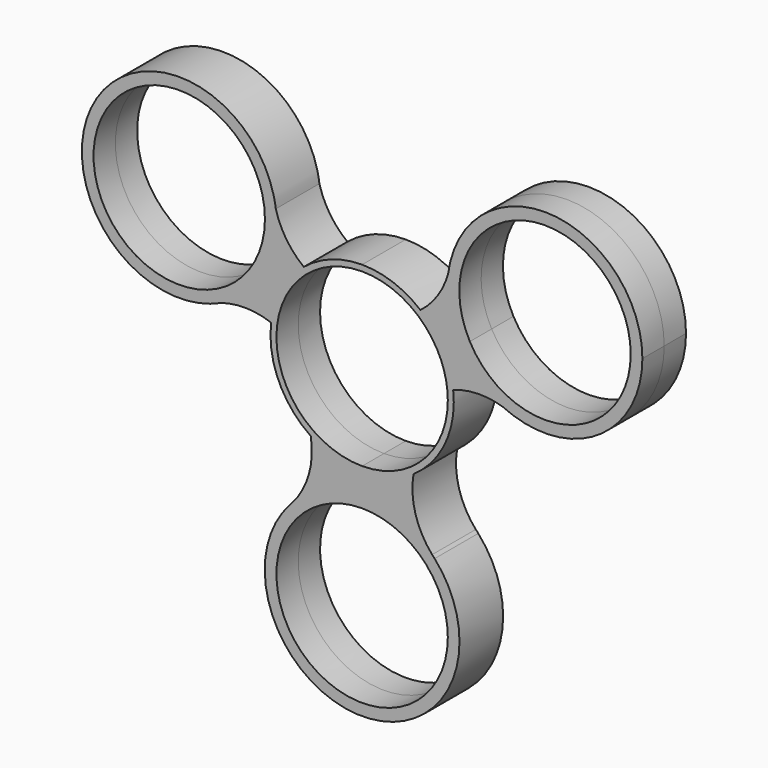
from build123d import *

# Parameters (mm, degrees)
F0_R     = 11.176
F1_DEPTH = 3.556


with BuildPart() as f1:
    # F0 (on Front) → F1 (new body, symmetric)
    with BuildSketch(Plane.XZ):
        with BuildLine():
            ThreePointArc((6.7002799246, -9.8976827694), (10.5579766794, -5.6024105266), (11.9523167324, 0))
            ThreePointArc((11.9523167324, 0), (11.9304871649, 0.7220465922), (11.8650782007, 1.4414557099))
            ThreePointArc((11.8650782007, 1.4414557099), (11.3793199415, 3.6563578792), (10.4839962384, 5.7396601071))
            Line((10.4839962384, 5.7396601071), (9.8030486125, 5.3668625751))
            ThreePointArc((9.8030486125, 5.3668625751), (10.8273230139, 2.7698469909), (11.176, 0))
            ThreePointArc((11.176, 0), (7.9026253865, -7.9026253865), (0, -11.176))
            Line((0, -11.176), (0, -11.9523167324))
            ThreePointArc((0, -11.9523167324), (3.5041144313, -11.42711938), (6.7002799246, -9.8976827694))
        make_face()
        with BuildLine():
            ThreePointArc((10.4839962384, 5.7396601071), (11.3793199415, 3.6563578792), (11.8650782007, 1.4414557099))
            ThreePointArc((11.8650782007, 1.4414557099), (15.1468517315, 2.0483664496), (18.4490286697, 1.5646251732))
            ThreePointArc((18.4490286697, 1.5646251732), (15.1517773463, 3.8060939797), (12.7119618322, 6.9594016014))
            Line((12.7119618322, 6.9594016014), (10.4839962384, 5.7396601071))
        make_face()
        with BuildLine():
            ThreePointArc((9.1344120356, -18.3689094107), (6.9562324961, -14.4094635558), (6.7002799246, -9.8976827694))
            ThreePointArc((6.7002799246, -9.8976827694), (3.5041144313, -11.42711938), (0, -11.9523167324))
            Line((0, -11.9523167324), (0, -14.4923167324))
            ThreePointArc((0, -14.4923167324), (4.9614880336, -15.5015666926), (9.1344120356, -18.3689094107))
        make_face()
        with BuildLine():
            Line((9.8030486125, 5.3668625751), (10.4839962384, 5.7396601071))
            ThreePointArc((10.4839962384, 5.7396601071), (9.2113316577, 7.6163800039), (7.6071320504, 9.2189705087))
            ThreePointArc((7.6071320504, 9.2189705087), (4.0416469295, 11.2482427681), (0, 11.9523167324))
            Line((0, 11.9523167324), (0, 11.176))
            ThreePointArc((0, 11.176), (5.6974959351, 9.6146511153), (9.8030486125, 5.3668625751))
        make_face()
        with BuildLine():
            ThreePointArc((7.6071320504, 9.2189705087), (9.2113316577, 7.6163800039), (10.4839962384, 5.7396601071))
            Line((10.4839962384, 5.7396601071), (12.7119618322, 6.9594016014))
            ThreePointArc((12.7119618322, 6.9594016014), (11.3700398508, 10.7137716013), (11.2582654612, 14.6991894196))
            ThreePointArc((11.2582654612, 14.6991894196), (9.8866064691, 11.6566691217), (7.6071320504, 9.2189705087))
        make_face()
        with BuildLine():
            ThreePointArc((19.8117182154, 1.0178507045), (19.1402143158, 1.3157636909), (18.4490286697, 1.5646251732))
            ThreePointArc((18.4490286697, 1.5646251732), (19.1224650067, 1.2715282716), (19.8117182154, 1.0178507045))
        make_face()
        with BuildLine():
            ThreePointArc((12.7119618322, 6.9594016014), (15.1517773463, 3.8060939797), (18.4490286697, 1.5646251732))
            ThreePointArc((18.4490286697, 1.5646251732), (19.1402143158, 1.3157636909), (19.8117182154, 1.0178507045))
            ThreePointArc((19.8117182154, 1.0178507045), (31.2673508338, 2.7479463892), (36.551789801, 13.0581090731))
            ThreePointArc((36.551789801, 13.0581090731), (25.4052864941, 25.6627371131), (11.5318452302, 16.1417701721))
            ThreePointArc((11.5318452302, 16.1417701721), (11.4210189836, 15.415555894), (11.2582654612, 14.6991894196))
            ThreePointArc((11.2582654612, 14.6991894196), (11.3700398508, 10.7137716013), (12.7119618322, 6.9594016014))
        make_face()
        with BuildLine():
            ThreePointArc((35.027789801, 13.0581090731), (26.6216367919, 2.2307860593), (14.0487411884, 7.691246498))
            ThreePointArc((14.0487411884, 7.691246498), (21.0819428101, 23.885432087), (35.027789801, 13.0581090731))
        make_face(mode=Mode.SUBTRACT)
        with BuildLine():
            Line((0, -14.4923167324), (0, -11.9523167324))
            ThreePointArc((0, -11.9523167324), (-3.5041144313, -11.42711938), (-6.7002799246, -9.8976827694))
            ThreePointArc((-6.7002799246, -9.8976827694), (-6.9562324961, -14.4094635558), (-9.1344120356, -18.3689094107))
            ThreePointArc((-9.1344120356, -18.3689094107), (-4.9614880336, -15.5015666926), (0, -14.4923167324))
        make_face()
        with BuildLine():
            ThreePointArc((-6.7002799246, -9.8976827694), (-3.5041144313, -11.42711938), (0, -11.9523167324))
            Line((0, -11.9523167324), (0, -11.176))
            ThreePointArc((0, -11.176), (-11.176, 0), (0, 11.176))
            Line((0, 11.176), (0, 11.9523167324))
            ThreePointArc((0, 11.9523167324), (-4.0416469295, 11.2482427681), (-7.6071320504, 9.2189705087))
            ThreePointArc((-7.6071320504, 9.2189705087), (-10.4839962384, 5.7396601071), (-11.8650782007, 1.4414557099))
            ThreePointArc((-11.8650782007, 1.4414557099), (-10.8771386837, -4.9543646745), (-6.7002799246, -9.8976827694))
        make_face()
        with BuildLine():
            ThreePointArc((9.4583258088, -18.7170543238), (9.2943419701, -18.544867742), (9.1344120356, -18.3689094107))
            ThreePointArc((9.1344120356, -18.3689094107), (4.9614880336, -15.5015666926), (0, -14.4923167324))
            ThreePointArc((0, -14.4923167324), (-4.9614880336, -15.5015666926), (-9.1344120356, -18.3689094107))
            ThreePointArc((-9.1344120356, -18.3689094107), (-9.2943419701, -18.544867742), (-9.4583258088, -18.7170543238))
            ThreePointArc((-9.4583258088, -18.7170543238), (-4.5370288862, -39.0542461238), (12.7, -27.1923167324))
            ThreePointArc((12.7, -27.1923167324), (11.8619293914, -22.6552878462), (9.4583258088, -18.7170543238))
        make_face()
        with BuildLine():
            ThreePointArc((11.176, -27.1923167324), (-7.9026253865, -35.094942119), (0, -16.0163167324))
            ThreePointArc((0, -16.0163167324), (7.9026253865, -19.2896913459), (11.176, -27.1923167324))
        make_face(mode=Mode.SUBTRACT)
        with BuildLine():
            ThreePointArc((9.4583258088, -18.7170543238), (9.2979985135, -18.5414656967), (9.1344120356, -18.3689094107))
            ThreePointArc((9.1344120356, -18.3689094107), (9.2943419701, -18.544867742), (9.4583258088, -18.7170543238))
        make_face()
        with BuildLine():
            ThreePointArc((11.5318452302, 16.1417701721), (11.3741901482, 15.4244367985), (11.2582654612, 14.6991894196))
            ThreePointArc((11.2582654612, 14.6991894196), (11.4210189836, 15.415555894), (11.5318452302, 16.1417701721))
        make_face()
        with BuildLine():
            ThreePointArc((-18.4490286697, 1.5646251732), (-15.1468517315, 2.0483664496), (-11.8650782007, 1.4414557099))
            ThreePointArc((-11.8650782007, 1.4414557099), (-10.4839962384, 5.7396601071), (-7.6071320504, 9.2189705087))
            ThreePointArc((-7.6071320504, 9.2189705087), (-9.8866064691, 11.6566691217), (-11.2582654612, 14.6991894196))
            ThreePointArc((-11.2582654612, 14.6991894196), (-11.178436671, 13.8803745062), (-11.151789801, 13.0581090731))
            ThreePointArc((-11.151789801, 13.0581090731), (-13.1301978864, 6.2509461681), (-18.4490286697, 1.5646251732))
        make_face()
        with BuildLine():
            ThreePointArc((-9.4583258088, -18.7170543238), (-9.2943419701, -18.544867742), (-9.1344120356, -18.3689094107))
            ThreePointArc((-9.1344120356, -18.3689094107), (-9.2979985135, -18.5414656967), (-9.4583258088, -18.7170543238))
        make_face()
        with BuildLine():
            ThreePointArc((-19.8117182154, 1.0178507045), (-19.1224650067, 1.2715282716), (-18.4490286697, 1.5646251732))
            ThreePointArc((-18.4490286697, 1.5646251732), (-19.1402143158, 1.3157636909), (-19.8117182154, 1.0178507045))
        make_face()
        with BuildLine():
            ThreePointArc((-19.8117182154, 1.0178507045), (-19.1402143158, 1.3157636909), (-18.4490286697, 1.5646251732))
            ThreePointArc((-18.4490286697, 1.5646251732), (-13.1301978864, 6.2509461681), (-11.151789801, 13.0581090731))
            ThreePointArc((-11.151789801, 13.0581090731), (-11.178436671, 13.8803745062), (-11.2582654612, 14.6991894196))
            ThreePointArc((-11.2582654612, 14.6991894196), (-11.4210189836, 15.415555894), (-11.5318452302, 16.1417701721))
            ThreePointArc((-11.5318452302, 16.1417701721), (-34.9916177698, 19.1568165449), (-19.8117182154, 1.0178507045))
        make_face()
        with Locations((-23.851789801, 13.0581090731)):
            Circle(F0_R, mode=Mode.SUBTRACT)
        with BuildLine():
            ThreePointArc((-11.5318452302, 16.1417701721), (-11.4210189836, 15.415555894), (-11.2582654612, 14.6991894196))
            ThreePointArc((-11.2582654612, 14.6991894196), (-11.3741901482, 15.4244367985), (-11.5318452302, 16.1417701721))
        make_face()
    extrude(amount=F1_DEPTH, both=True)


solid = f1.part
